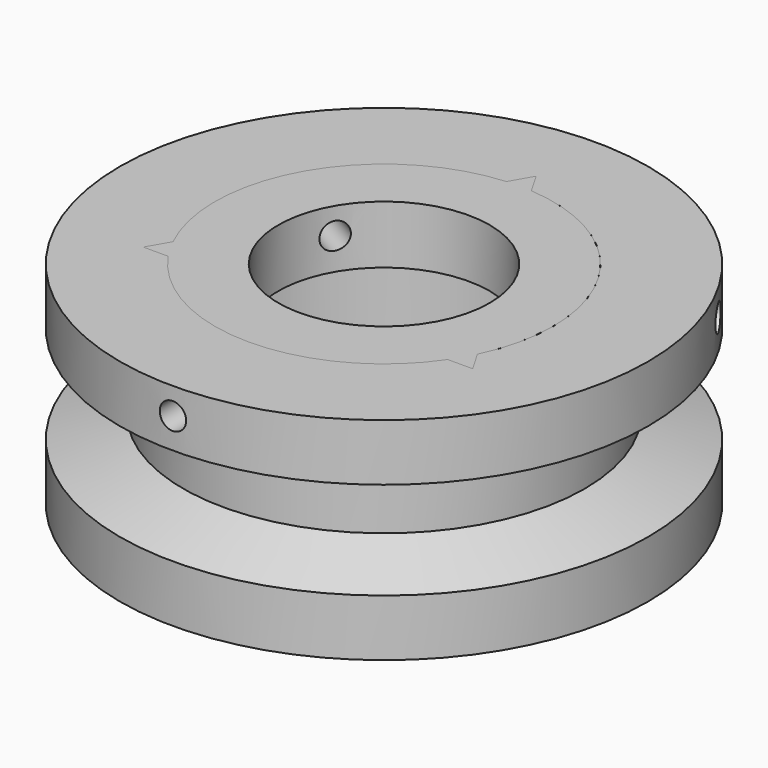
from build123d import *

# Parameters (mm, degrees)
CYLINDER002_R               = 1.25
CYLINDER002_DEPTH           = 20
CYLINDER002_ROLL_ANGLE      = 90
CYLINDER002_PLACEMENT_ANGLE = 120
CYLINDER001_R               = 1.25
CYLINDER001_DEPTH           = 20
CYLINDER001_ROLL_ANGLE      = 90
CYLINDER001_PLACEMENT_ANGLE = -120
CYLINDER_R                  = 1.25
CYLINDER_DEPTH              = 20
CYLINDER_ROLL_ANGLE         = 90
SKETCH004_R                 = 10
PAD_DEPTH                   = 5.5
POCKET_DEPTH                = 5.5


with BuildPart() as c_righthole_cylinder:
    # Cylinder002 → Cylinder002 (new body)
    with BuildSketch(Plane.XY):
        Circle(CYLINDER002_R)
    extrude(amount=CYLINDER002_DEPTH)


with BuildPart() as c_righthole_cylinder_1:
    # Cylinder002 roll: moved
    add(c_righthole_cylinder.part.rotate(Axis((0, 0, 0), (1, 0, 0)), CYLINDER002_ROLL_ANGLE))


with BuildPart() as c_righthole_cylinder_2:
    # Cylinder002 placement: moved
    add(c_righthole_cylinder_1.part.moved(Location((6.495191, 3.75, 7.5))).rotate(Axis((6.495191, 3.75, 7.5), (0, 0, 1)), CYLINDER002_PLACEMENT_ANGLE))


with BuildPart() as b_lefthole_cylinder:
    # Cylinder001 → Cylinder001 (new body)
    with BuildSketch(Plane.XY):
        Circle(CYLINDER001_R)
    extrude(amount=CYLINDER001_DEPTH)


with BuildPart() as b_lefthole_cylinder_1:
    # Cylinder001 roll: moved
    add(b_lefthole_cylinder.part.rotate(Axis((0, 0, 0), (1, 0, 0)), CYLINDER001_ROLL_ANGLE))


with BuildPart() as b_lefthole_cylinder_2:
    # Cylinder001 placement: moved
    add(b_lefthole_cylinder_1.part.moved(Location((-6.495191, 3.75, 7.5))).rotate(Axis((-6.495191, 3.75, 7.5), (0, 0, 1)), CYLINDER001_PLACEMENT_ANGLE))


with BuildPart() as a_fronthole_cylinder:
    # Cylinder → Cylinder (new body)
    with BuildSketch(Plane.XY):
        Circle(CYLINDER_R)
    extrude(amount=CYLINDER_DEPTH)


with BuildPart() as a_fronthole_cylinder_1:
    # Cylinder roll: moved
    add(a_fronthole_cylinder.part.rotate(Axis((0, 0, 0), (1, 0, 0)), CYLINDER_ROLL_ANGLE))


with BuildPart() as a_fronthole_cylinder_2:
    # Cylinder placement: moved
    add(a_fronthole_cylinder_1.part.moved(Location((0, -7.5, 7.5))))


with BuildPart() as f_4_ringrighthole_cut:
    # Sketch004 → Pad (new body)
    with BuildSketch(Plane.XY.offset(4.5)):
        with BuildLine():
            ThreePointArc((14.408607, -6.956439), (13.856406, 8), (1.17985, 15.956439))
            Line((0, 18), (1.17985, 15.956439))
            Line((-1.17985, 15.956439), (0, 18))
            ThreePointArc((-1.17985, 15.956439), (-13.856406, 8), (-14.408607, -6.956439))
            Line((-14.408607, -6.956439), (-15.588457, -9))
            Line((-15.588457, -9), (-13.228757, -9))
            ThreePointArc((-13.228757, -9), (0, -16), (13.228757, -9))
            Line((15.588457, -9), (13.228757, -9))
            Line((14.408607, -6.956439), (15.588457, -9))
        make_face()
        Circle(SKETCH004_R, mode=Mode.SUBTRACT)
    extrude(amount=PAD_DEPTH)

    # Cut: cut A_FrontHole_Cylinder
    add(a_fronthole_cylinder_2.part, mode=Mode.SUBTRACT)

    # Cut001: cut B_LeftHole_Cylinder
    add(b_lefthole_cylinder_2.part, mode=Mode.SUBTRACT)

    # Cut002: cut C_RightHole_Cylinder
    add(c_righthole_cylinder_2.part, mode=Mode.SUBTRACT)


with BuildPart() as f_4_bodyrighthole_cut:
    # Sketch → Revolution001 (revolve)
    with BuildSketch(Plane.XZ):
        Polygon((13.75, -10), (25, -10), (25, -4.615966), (19, -2.55), (19, 2.55), (25, 4.615966), (25, 10), (16, 10), (16, -4.5), (14.25, -4.5), (14.25, -9), (13.75, -9), align=None)
    revolve(axis=Axis((0, 0, 0), (0, 0, 1)))

    # Sketch005 → Pocket (cut)
    with BuildSketch(Plane(origin=(0, 0, 10), x_dir=(-1, 0, 0), z_dir=(0, 0, 1))):
        Polygon((0, -18), (15.588457, 9), (-15.588457, 9), align=None)
    extrude(amount=-POCKET_DEPTH, mode=Mode.SUBTRACT)

    # Cut003: cut A_FrontHole_Cylinder
    add(a_fronthole_cylinder_2.part, mode=Mode.SUBTRACT)

    # Cut004: cut B_LeftHole_Cylinder
    add(b_lefthole_cylinder_2.part, mode=Mode.SUBTRACT)

    # Cut005: cut C_RightHole_Cylinder
    add(c_righthole_cylinder_2.part, mode=Mode.SUBTRACT)


solid = Compound([f_4_ringrighthole_cut.part, f_4_bodyrighthole_cut.part])
